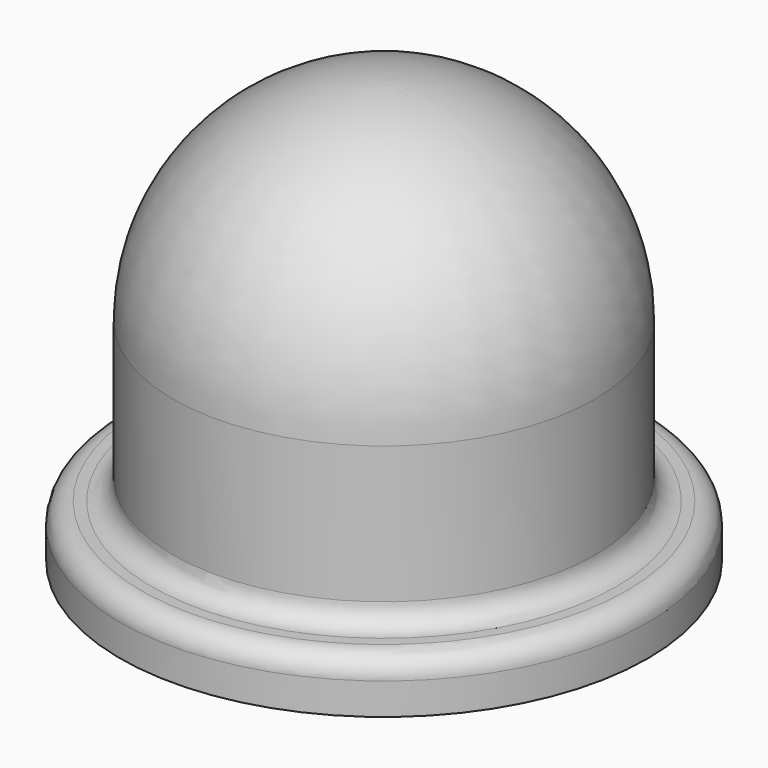
from build123d import *

# Parameters (mm, degrees)
F2_R     = 31.75
F3_DEPTH = 6.35
F4_R     = 2.54


with BuildPart() as f1:
    # F0 (on Front) → F1 (revolve)
    with BuildSketch(Plane.XZ):
        with BuildLine():
            ThreePointArc((25.4, 0), (17.960512, 17.960512), (0, 25.4))
            Line((0, 25.4), (0, -25.4))
            Line((0, -25.4), (25.4, -25.4))
            Line((25.4, -25.4), (25.4, 0))
        make_face()
    revolve(axis=Axis((0, 0, 0), (0, 0, -1)))

    # F2 (on face) → F3 (join)
    with BuildSketch(Plane(origin=(0, 0, -25.4), x_dir=(1, 0, 0), z_dir=(0, 0, -1))):
        Circle(F2_R)
    extrude(amount=-F3_DEPTH)

    # F4
    f4_edges = [f1.edges().sort_by_distance(p)[0] for p in [
        (-25.4, 0, -19.05),
        (-31.75, 0, -19.05),
        (-25.4, 0, 0),
    ]]
    fillet(f4_edges, radius=F4_R)


solid = f1.part
